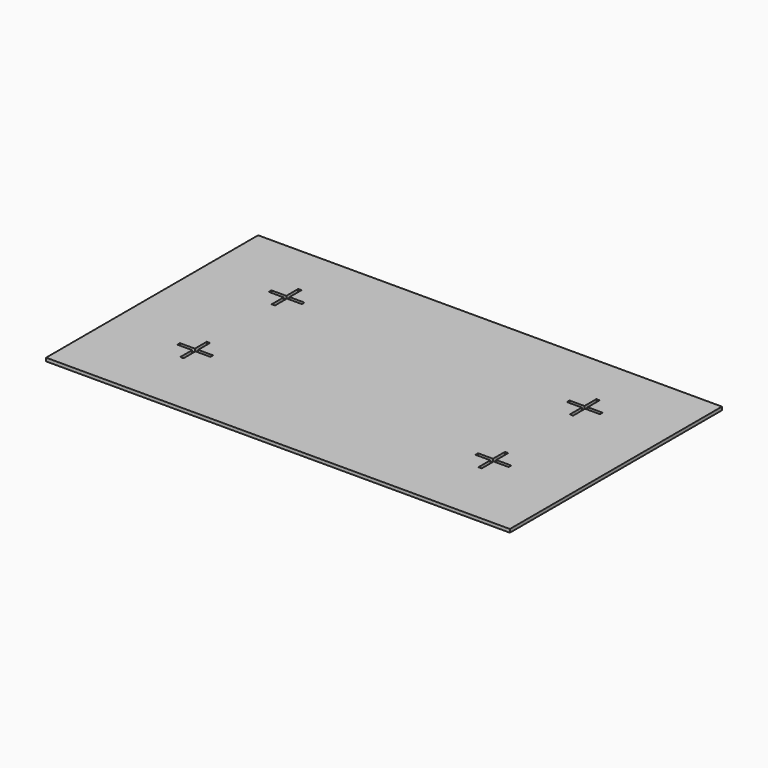
from build123d import *

# Parameters (mm, degrees)
F0_W     = 700
F0_H     = 400
F1_DEPTH = 5


with BuildPart() as f1:
    # F0 (on Top) → F1 (new body)
    with BuildSketch(Plane.XY):
        with Locations((-350, 200)):
            Rectangle(F0_W, F0_H)
        Polygon((-600, 122.5), (-600, 127.5), (-577.5, 127.5), (-577.5, 150), (-572.5, 150), (-572.5, 127.5), (-550, 127.5), (-550, 122.5), (-572.5, 122.5), (-572.5, 100), (-577.5, 100), (-577.5, 122.5), align=None, mode=Mode.SUBTRACT)
        Polygon((-150, 122.5), (-150, 127.5), (-127.5, 127.5), (-127.5, 150), (-122.5, 150), (-122.5, 127.5), (-100, 127.5), (-100, 122.5), (-122.5, 122.5), (-122.5, 100), (-127.5, 100), (-127.5, 122.5), align=None, mode=Mode.SUBTRACT)
        Polygon((-600, 295), (-600, 300), (-577.5, 300), (-577.5, 322.5), (-572.5, 322.5), (-572.5, 300), (-550, 300), (-550, 295), (-572.5, 295), (-572.5, 272.5), (-577.5, 272.5), (-577.5, 295), align=None, mode=Mode.SUBTRACT)
        Polygon((-150, 295), (-150, 300), (-127.5, 300), (-127.5, 322.5), (-122.5, 322.5), (-122.5, 300), (-100, 300), (-100, 295), (-122.5, 295), (-122.5, 272.5), (-127.5, 272.5), (-127.5, 295), align=None, mode=Mode.SUBTRACT)
    extrude(amount=F1_DEPTH)


solid = f1.part
